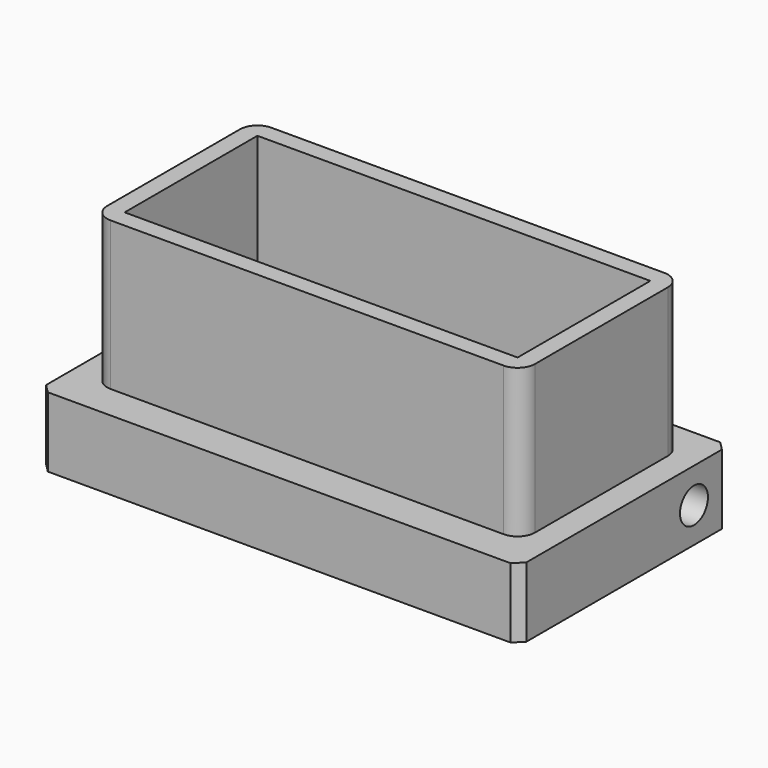
from build123d import *

# Parameters (mm, degrees)
SKETCH_W        = 55
SKETCH_H        = 30
PAD_DEPTH       = 8
SKETCH001_R     = 1.5
SKETCH001_W     = 5
SKETCH001_H     = 2
POCKET_DEPTH    = 8
SKETCH002_W     = 49
SKETCH002_H     = 23
SKETCH002_W_2   = 45
SKETCH002_H_2   = 19
PAD001_DEPTH    = 17
SKETCH003_R     = 2
POCKET001_DEPTH = 60
FILLET_R        = 2
FILLET001_R     = 2
FILLET002_R     = 2
FILLET003_R     = 2
SKETCH004_W     = 5
SKETCH004_H     = 20
SKETCH004_W_2   = 23
SKETCH004_H_2   = 5
POCKET002_DEPTH = 1
SKETCH005_R     = 3
POCKET003_DEPTH = 2
CHAMFER_SIZE    = 1
CHAMFER001_SIZE = 1
CHAMFER002_SIZE = 1
CHAMFER003_SIZE = 1


with BuildPart() as part:
    # Sketch → Pad (new body)
    with BuildSketch(Plane.XY):
        with Locations((27.5, 15)):
            Rectangle(SKETCH_W, SKETCH_H)
    extrude(amount=PAD_DEPTH)

    # Sketch001 → Pocket (cut)
    with BuildSketch(Plane.XY.offset(8)):
        with Locations((9, 19)):
            Circle(SKETCH001_R)
        with Locations((46, 19)):
            Circle(SKETCH001_R)
        with Locations((27.5, 8)):
            Rectangle(SKETCH001_W, SKETCH001_H)
    extrude(amount=-POCKET_DEPTH, mode=Mode.SUBTRACT)

    # Sketch002 → Pad001 (new body)
    with BuildSketch(Plane.XY.offset(8)):
        with Locations((27.5, 15.5)):
            Rectangle(SKETCH002_W, SKETCH002_H)
        with Locations((27.5, 15.5)):
            Rectangle(SKETCH002_W_2, SKETCH002_H_2, mode=Mode.SUBTRACT)
    extrude(amount=PAD001_DEPTH)

    # Sketch003 → Pocket001 (cut)
    with BuildSketch(Plane.YZ.offset(55)):
        with Locations((25, 4)):
            Circle(SKETCH003_R)
    extrude(amount=-POCKET001_DEPTH, mode=Mode.SUBTRACT)

    # Fillet
    fillet_edges = [part.edges().sort_by_distance(p)[0] for p in [
        (3, 4, 16.5),
    ]]
    fillet(fillet_edges, radius=FILLET_R)

    # Fillet001
    fillet001_edges = [part.edges().sort_by_distance(p)[0] for p in [
        (3, 27, 16.5),
    ]]
    fillet(fillet001_edges, radius=FILLET001_R)

    # Fillet002
    fillet002_edges = [part.edges().sort_by_distance(p)[0] for p in [
        (52, 4, 16.5),
    ]]
    fillet(fillet002_edges, radius=FILLET002_R)

    # Fillet003
    fillet003_edges = [part.edges().sort_by_distance(p)[0] for p in [
        (52, 27, 16.5),
    ]]
    fillet(fillet003_edges, radius=FILLET003_R)

    # Sketch004 → Pocket002 (cut)
    with BuildSketch(Plane(origin=(0, 0, 0), x_dir=(1, 0, 0), z_dir=(0, 0, -1))):
        with Locations((27.5, -18)):
            Rectangle(SKETCH004_W, SKETCH004_H)
        with Locations((13.5, -25.5)):
            Rectangle(SKETCH004_W_2, SKETCH004_H_2)
    extrude(amount=-POCKET002_DEPTH, mode=Mode.SUBTRACT)

    # Sketch005 → Pocket003 (cut)
    with BuildSketch(Plane(origin=(0, 0, 0), x_dir=(1, 0, 0), z_dir=(0, 0, -1))):
        with Locations((9, -19)):
            Circle(SKETCH005_R)
        with Locations((46, -19)):
            Circle(SKETCH005_R)
    extrude(amount=-POCKET003_DEPTH, mode=Mode.SUBTRACT)

    # Chamfer
    chamfer_edges = [part.edges().sort_by_distance(p)[0] for p in [
        (55, 30, 4),
    ]]
    chamfer(chamfer_edges, length=CHAMFER_SIZE)

    # Chamfer001
    chamfer001_edges = [part.edges().sort_by_distance(p)[0] for p in [
        (55, 0, 4),
    ]]
    chamfer(chamfer001_edges, length=CHAMFER001_SIZE)

    # Chamfer002
    chamfer002_edges = [part.edges().sort_by_distance(p)[0] for p in [
        (0, 30, 4),
    ]]
    chamfer(chamfer002_edges, length=CHAMFER002_SIZE)

    # Chamfer003
    chamfer003_edges = [part.edges().sort_by_distance(p)[0] for p in [
        (0, 0, 4),
    ]]
    chamfer(chamfer003_edges, length=CHAMFER003_SIZE)


solid = part.part
